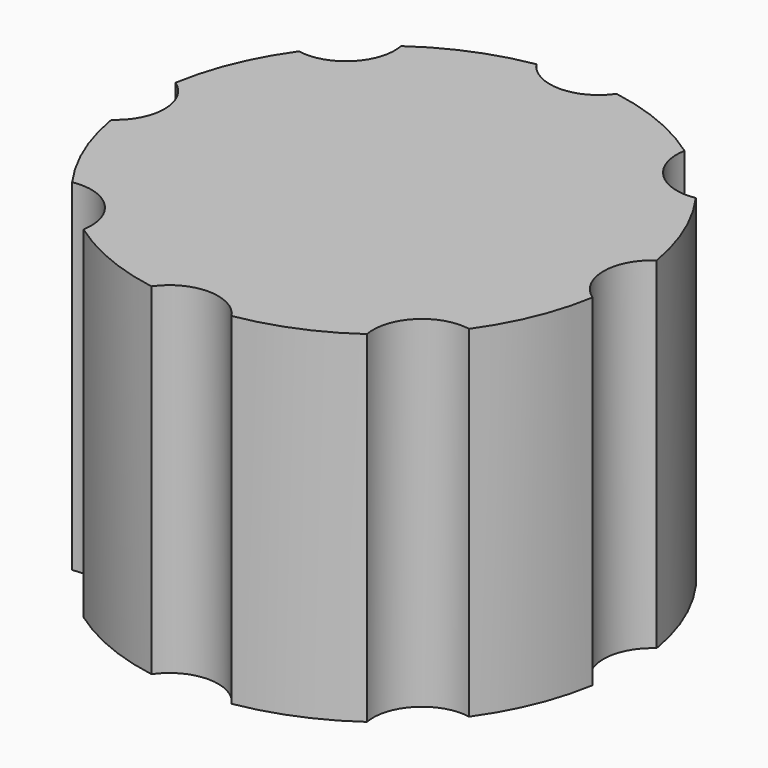
from build123d import *

# Parameters (mm, degrees)
CYLINDER_R         = 10
CYLINDER_DEPTH     = 14
POCKET_DEPTH       = 10
SKETCH001_R        = 2
POCKET001_DEPTH    = 14
POLARPATTERN_COUNT = 8


with BuildPart() as part:
    # Cylinder → Cylinder (new body)
    with BuildSketch(Plane.XY):
        Circle(CYLINDER_R)
    extrude(amount=CYLINDER_DEPTH)

    # Sketch → Pocket (cut)
    with BuildSketch(Plane(origin=(0, 0, 0), x_dir=(1, 0, 0), z_dir=(0, 0, -1))):
        with BuildLine():
            ThreePointArc((-1.5, -2.826659), (3.2, 0), (-1.5, 2.826659))
            Line((-1.5, -2.826659), (-1.5, 2.826659))
        make_face()
    extrude(amount=-POCKET_DEPTH, mode=Mode.SUBTRACT)

    # Sketch001 → Pocket001 (cut)
    with BuildSketch(Plane(origin=(0, 0, 0), x_dir=(1, 0, 0), z_dir=(0, 0, -1))):
        with Locations((-11, 0)):
            Circle(SKETCH001_R)
    pocket001 = extrude(amount=-POCKET001_DEPTH, mode=Mode.SUBTRACT)

    # PolarPattern: Pocket001 ×8 about axis
    polarpattern_axis = Axis((0, 0, 0), (0, 0, -1))
    for i in range(1, POLARPATTERN_COUNT):
        add(pocket001.rotate(polarpattern_axis, i * 360 / POLARPATTERN_COUNT), mode=Mode.SUBTRACT)


solid = part.part
